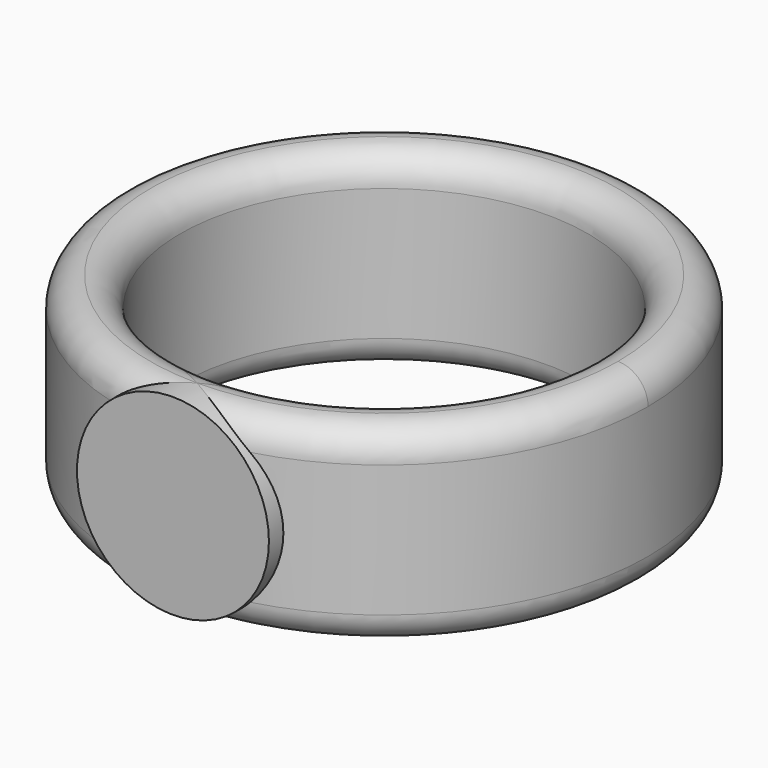
from build123d import *

# Parameters (mm, degrees)
F3_R     = 5.08
F4_DEPTH = 3.175


with BuildPart() as f1:
    # F0 (on Front) → F1 (revolve)
    with BuildSketch(Plane.XZ):
        with BuildLine():
            ThreePointArc((12.3825, 1.23411), (11.259968, 0.769142), (10.795, -0.35339))
            Line((10.795, -0.35339), (10.795, -7.33839))
            ThreePointArc((10.795, -7.33839), (11.259968, -8.460922), (12.3825, -8.92589))
            ThreePointArc((12.3825, -8.92589), (13.505032, -8.460922), (13.97, -7.33839))
            Line((13.97, -7.33839), (13.97, -0.35339))
            ThreePointArc((13.97, -0.35339), (13.505032, 0.769142), (12.3825, 1.23411))
        make_face()
    revolve(axis=Axis((0, 0, 14.801255), (0, 0, 1)))

    # F3 (on offset) → F4 (join)
    with BuildSketch(Plane.XZ.offset(10.795)):
        with Locations((0, -3.84589)):
            Circle(F3_R)
    extrude(amount=F4_DEPTH)

    # F0 (on Front) → F5 (revolve, cut)
    with BuildSketch(Plane.XZ):
        with BuildLine():
            Line((10.795, -7.33839), (10.795, -0.35339))
            ThreePointArc((10.795, -0.35339), (11.259968, 0.769142), (12.3825, 1.23411))
            Line((12.3825, 1.23411), (7.964968, 1.23411))
            Line((7.964968, 1.23411), (7.964968, -8.92589))
            Line((7.964968, -8.92589), (12.3825, -8.92589))
            ThreePointArc((12.3825, -8.92589), (11.259968, -8.460922), (10.795, -7.33839))
        make_face()
    revolve(axis=Axis((0, 0, 14.801255), (0, 0, 1)), mode=Mode.SUBTRACT)


solid = f1.part
